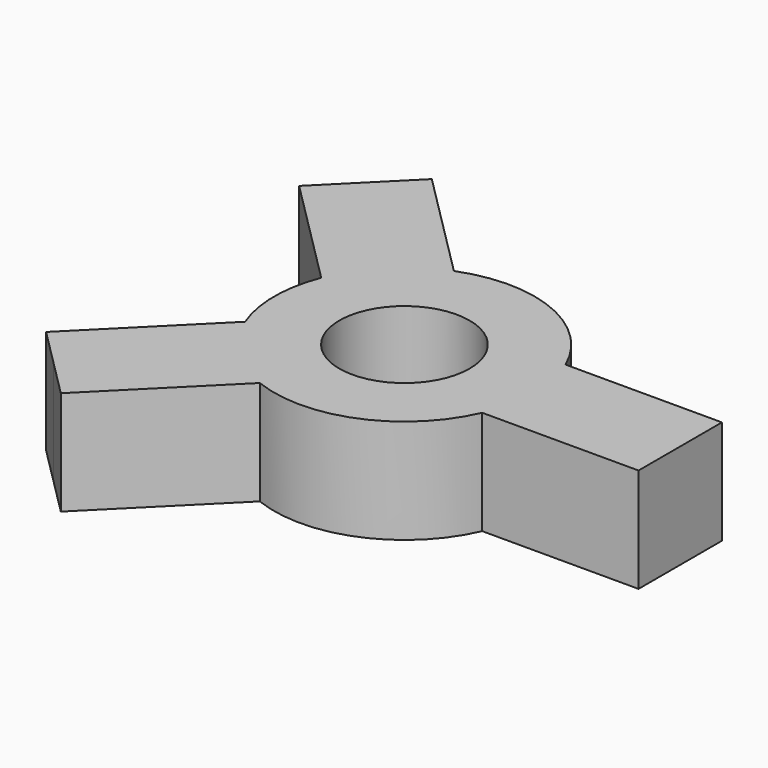
from build123d import *

# Parameters (mm, degrees)
F2_DEPTH = 20
F3_R     = 12.5
F4_DEPTH = 25


with BuildPart() as f2:
    # F1 (on Top) → F2 (new body)
    with BuildSketch(Plane.XY):
        with BuildLine():
            ThreePointArc((22.9128784748, -10), (24.4726578233, -5.1077410922), (25, 0))
            ThreePointArc((25, 0), (24.4726578233, 5.1077410922), (22.9128784748, 10))
            Line((22.9128784748, 10), (22.9128784748, 0))
            Line((22.9128784748, 0), (22.9128784748, -10))
        make_face()
        with BuildLine():
            ThreePointArc((22.9128784748, 10), (24.4726578233, 5.1077410922), (25, 0))
            ThreePointArc((25, 0), (24.4726578233, -5.1077410922), (22.9128784748, -10))
            Line((22.9128784748, -10), (52.9128784748, -10))
            Line((52.9128784748, -10), (52.9128784748, 10))
            Line((52.9128784748, 10), (22.9128784748, 10))
        make_face()
        with BuildLine():
            Line((22.9128784748, 0), (22.9128784748, 10))
            ThreePointArc((22.9128784748, 10), (9.5670858091, 23.0969883128), (-9.1307839342, 23.2729195579))
            Line((-9.1307839342, 23.2729195579), (-23.2729195579, 9.1307839342))
            ThreePointArc((-23.2729195579, 9.1307839342), (-25, 0), (-23.2729195579, -9.1307839342))
            Line((-23.2729195579, -9.1307839342), (-9.1307839342, -23.2729195579))
            ThreePointArc((-9.1307839342, -23.2729195579), (9.5670858091, -23.0969883128), (22.9128784748, -10))
            Line((22.9128784748, -10), (22.9128784748, 0))
        make_face()
        with BuildLine():
            Line((-23.2729195579, 9.1307839342), (-9.1307839342, 23.2729195579))
            ThreePointArc((-9.1307839342, 23.2729195579), (-17.6776695297, 17.6776695297), (-23.2729195579, 9.1307839342))
        make_face()
        with BuildLine():
            ThreePointArc((-23.2729195579, 9.1307839342), (-17.6776695297, 17.6776695297), (-9.1307839342, 23.2729195579))
            Line((-9.1307839342, 23.2729195579), (-30.3439873698, 44.4861229935))
            Line((-30.3439873698, 44.4861229935), (-37.4150551816, 37.4150551816))
            Line((-37.4150551816, 37.4150551816), (-44.4861229935, 30.3439873698))
            Line((-44.4861229935, 30.3439873698), (-23.2729195579, 9.1307839342))
        make_face()
        with BuildLine():
            Line((-30.3439873698, -44.4861229935), (-9.1307839342, -23.2729195579))
            ThreePointArc((-9.1307839342, -23.2729195579), (-17.6776695297, -17.6776695297), (-23.2729195579, -9.1307839342))
            Line((-23.2729195579, -9.1307839342), (-44.4861229935, -30.3439873698))
            Line((-44.4861229935, -30.3439873698), (-37.4150551816, -37.4150551816))
            Line((-37.4150551816, -37.4150551816), (-30.3439873698, -44.4861229935))
        make_face()
        with BuildLine():
            ThreePointArc((-23.2729195579, -9.1307839342), (-17.6776695297, -17.6776695297), (-9.1307839342, -23.2729195579))
            Line((-9.1307839342, -23.2729195579), (-23.2729195579, -9.1307839342))
        make_face()
    extrude(amount=F2_DEPTH)

    # F3 (on face) → F4 (cut)
    with BuildSketch(Plane.XY.offset(20)):
        Circle(F3_R)
    extrude(amount=-F4_DEPTH, mode=Mode.SUBTRACT)


solid = f2.part
